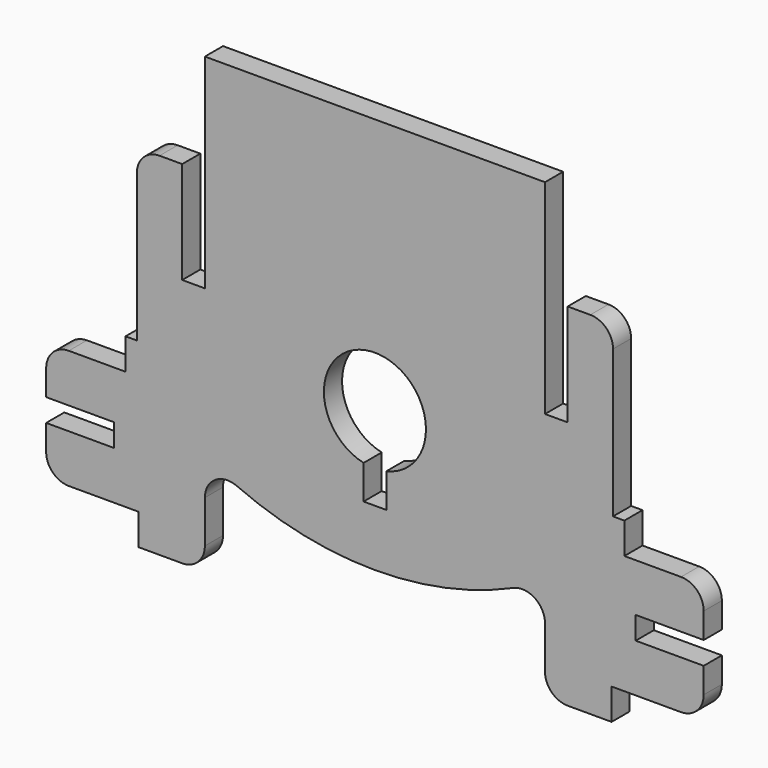
from build123d import *

# Parameters (mm, degrees)
F1_DEPTH = 2


with BuildPart() as f1:
    # F0 (on Front) → F1 (new body)
    with BuildSketch(Plane.XZ):
        with BuildLine():
            Line((15, 15.5), (-15, 15.5))
            Line((-15, 15.5), (-15, -2.5))
            Line((-15, -2.5), (-17, -2.5))
            Line((-17, -2.5), (-17, 6.5))
            Line((-17, 6.5), (-19, 6.5))
            ThreePointArc((-19, 6.5), (-20.414214, 5.914214), (-21, 4.5))
            Line((-21, 4.5), (-21, -8.5))
            Line((-21, -8.5), (-22, -8.5))
            Line((-22, -8.5), (-22, -11.25))
            Line((-22, -11.25), (-27, -11.25))
            ThreePointArc((-27, -11.25), (-28.414214, -11.835786), (-29, -13.25))
            Line((-29, -13.25), (-29, -15.5))
            Line((-29, -15.5), (-23, -15.5))
            Line((-23, -15.5), (-23, -17.5))
            Line((-23, -17.5), (-29, -17.5))
            Line((-29, -17.5), (-29, -19.75))
            ThreePointArc((-29, -19.75), (-28.414214, -21.164214), (-27, -21.75))
            Line((-27, -21.75), (-20.873445, -21.75))
            Line((-20.873445, -21.75), (-20.873445, -24.5))
            Line((-20.873445, -24.5), (-17, -24.5))
            ThreePointArc((-17, -24.5), (-15.585786, -23.914214), (-15, -22.5))
            Line((-15, -22.5), (-15, -18.752128))
            ThreePointArc((-15, -18.752128), (-14.091174, -17.076019), (-12.190661, -16.923201))
            ThreePointArc((-12.190661, -16.923201), (-6.23001, -18.848761), (0, -19.5))
            ThreePointArc((0, -19.5), (6.23001, -18.848761), (12.190661, -16.923201))
            ThreePointArc((12.190661, -16.923201), (14.091174, -17.076019), (15, -18.752128))
            Line((15, -18.752128), (15, -22.5))
            ThreePointArc((15, -22.5), (15.585786, -23.914214), (17, -24.5))
            Line((17, -24.5), (20.873445, -24.5))
            Line((20.873445, -24.5), (20.873445, -21.75))
            Line((20.873445, -21.75), (27, -21.75))
            ThreePointArc((27, -21.75), (28.414214, -21.164214), (29, -19.75))
            Line((29, -19.75), (29, -17.5))
            Line((29, -17.5), (23, -17.5))
            Line((23, -17.5), (23, -15.5))
            Line((23, -15.5), (29, -15.5))
            Line((29, -15.5), (29, -13.25))
            ThreePointArc((29, -13.25), (28.414214, -11.835786), (27, -11.25))
            Line((27, -11.25), (22, -11.25))
            Line((22, -11.25), (22, -8.5))
            Line((22, -8.5), (21, -8.5))
            Line((21, -8.5), (21, 4.5))
            ThreePointArc((21, 4.5), (20.414214, 5.914214), (19, 6.5))
            Line((19, 6.5), (17, 6.5))
            Line((17, 6.5), (17, -2.5))
            Line((17, -2.5), (15, -2.5))
            Line((15, -2.5), (15, 15.5))
        make_face()
        with BuildLine():
            Line((1, -14.5), (0, -14.5))
            Line((0, -14.5), (-1, -14.5))
            Line((-1, -14.5), (-1, -11.5))
            ThreePointArc((-1, -11.5), (0, -2.612518), (1, -11.5))
            Line((1, -11.5), (1, -14.5))
        make_face(mode=Mode.SUBTRACT)
    extrude(amount=F1_DEPTH)


solid = f1.part
